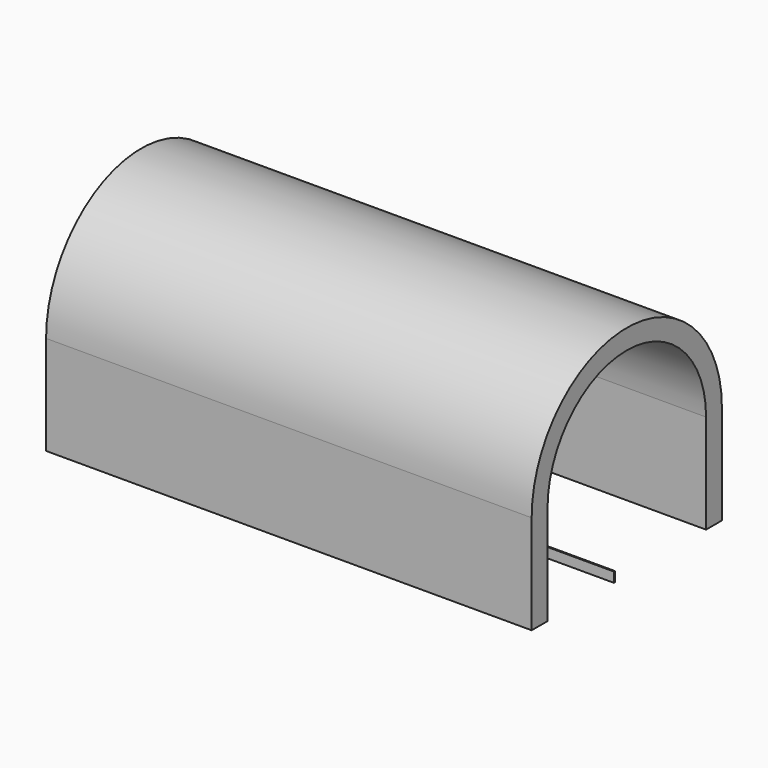
from build123d import *

# Parameters (mm, degrees)
F1_W     = 4
F1_H     = 20
F0_W     = 0.25
F0_H     = 2
F2_DEPTH = 98


with BuildPart() as f2:
    # F1 (on Right) + F0 (on Right) → F2 (new body)
    with BuildSketch(Plane.YZ):
        with Locations((-22, 10)):
            Rectangle(F1_W, F1_H)
        with Locations((22, 10)):
            Rectangle(F1_W, F1_H)
        with BuildLine():
            Line((-24, 20), (-20, 20))
            ThreePointArc((-20, 20), (0, 40), (20, 20))
            Line((20, 20), (24, 20))
            ThreePointArc((24, 20), (0, 44), (-24, 20))
        make_face()
    with BuildSketch(Plane.YZ):
        with Locations((-3.125, 1)):
            Rectangle(F0_W, F0_H)
    extrude(amount=F2_DEPTH)


solid = f2.part
